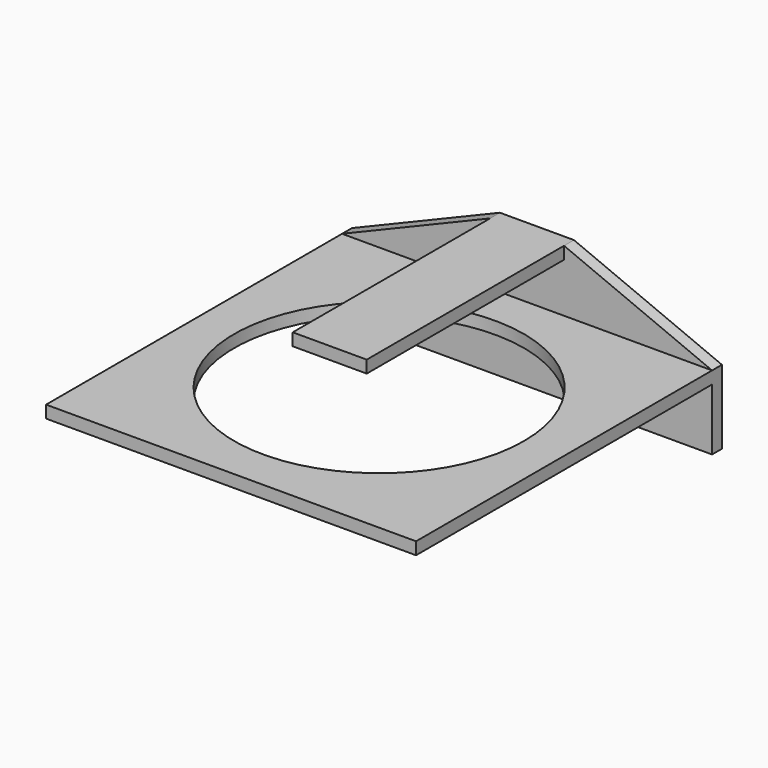
from build123d import *

# Parameters (mm, degrees)
F0_W     = 300
F0_H     = 60
F1_DEPTH = 10
F2_W     = 300
F2_H     = 10
F3_DEPTH = 300
F4_R     = 117.5
F5_DEPTH = 60.001
F6_W     = 60
F6_H     = 10
F7_DEPTH = 200


with BuildPart() as f1:
    # F0 (on Front) → F1 (new body)
    with BuildSketch(Plane.XZ):
        Rectangle(F0_W, F0_H)
        Polygon((-150, 30), (150, 30), (30, 80), (0, 80), (-30, 80), align=None)
    extrude(amount=F1_DEPTH)

    # F2 (on face) → F3 (join)
    with BuildSketch(Plane.XZ.offset(10)):
        with Locations((0, 25)):
            Rectangle(F2_W, F2_H)
    extrude(amount=F3_DEPTH)

    # F4 (on face) → F5 (cut, through all)
    with BuildSketch(Plane(origin=(0, 0, 20), x_dir=(1, 0, 0), z_dir=(0, 0, -1))):
        with Locations((0, 160)):
            Circle(F4_R)
    extrude(amount=-F5_DEPTH, mode=Mode.SUBTRACT)

    # F6 (on face) → F7 (join)
    with BuildSketch(Plane.XZ.offset(10)):
        with Locations((0, 75)):
            Rectangle(F6_W, F6_H)
    extrude(amount=F7_DEPTH)


solid = f1.part
